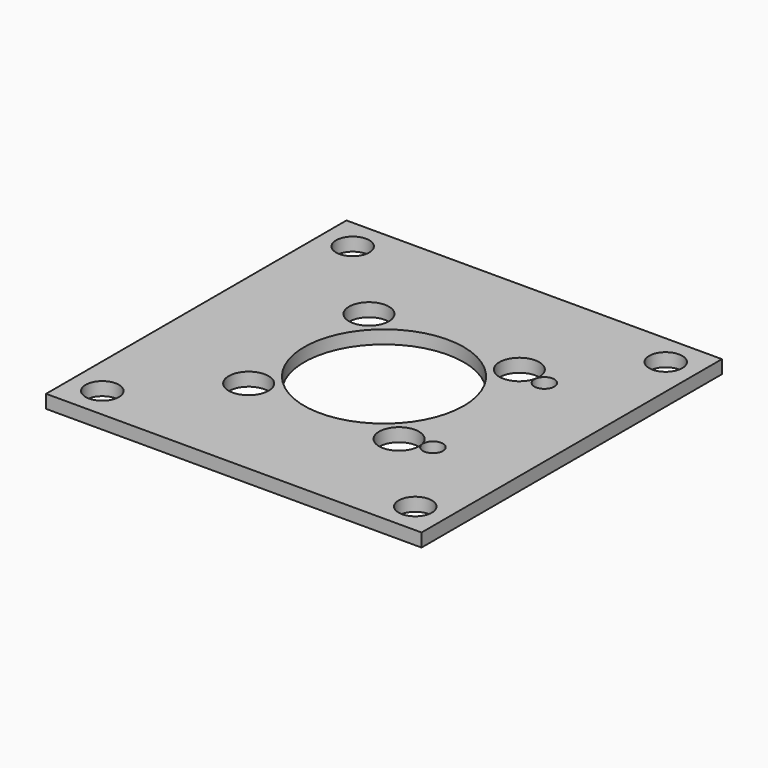
from build123d import *

# Parameters (mm, degrees)
BOX268_W                    = 56.5
BOX268_H                    = 56.5
BOX268_DEPTH                = 2
CYLINDER687_R               = 1.5
CYLINDER687_DEPTH           = 20
CYLINDER686_R               = 1.5
CYLINDER686_DEPTH           = 20
COMPOUND411_PLACEMENT_ANGLE = 90
BOX266_W                    = 20
BOX266_H                    = 8
BOX266_DEPTH                = 3
BOX265_W                    = 20
BOX265_H                    = 8
BOX265_DEPTH                = 3
BOX267_W                    = 20
BOX267_H                    = 8
BOX267_DEPTH                = 3
BOX264_W                    = 20
BOX264_H                    = 8
BOX264_DEPTH                = 3
CYLINDER682_R               = 12
CYLINDER682_DEPTH           = 20
CYLINDER672_R               = 5
CYLINDER672_DEPTH           = 4
CYLINDER670_R               = 5
CYLINDER670_DEPTH           = 4
CYLINDER674_R               = 5
CYLINDER674_DEPTH           = 4
CYLINDER675_R               = 5
CYLINDER675_DEPTH           = 4
CYLINDER683_R               = 2.5
CYLINDER683_DEPTH           = 20
CYLINDER673_R               = 2.5
CYLINDER673_DEPTH           = 20
CYLINDER676_R               = 2.5
CYLINDER676_DEPTH           = 20
CYLINDER684_R               = 2.5
CYLINDER684_DEPTH           = 20
CYLINDER681_R               = 3
CYLINDER681_DEPTH           = 5
CYLINDER681_PLACEMENT_ANGLE = 22.5
CYLINDER669_R               = 3
CYLINDER669_DEPTH           = 5
CYLINDER669_PLACEMENT_ANGLE = 67.5
CYLINDER680_R               = 3
CYLINDER680_DEPTH           = 5
CYLINDER680_PLACEMENT_ANGLE = 202.5
CYLINDER677_R               = 3
CYLINDER677_DEPTH           = 5
CYLINDER677_PLACEMENT_ANGLE = 112.5
COMPOUND408_PLACEMENT_ANGLE = 45
CYLINDER679_R               = 1.5
CYLINDER679_DEPTH           = 30
CYLINDER679_PLACEMENT_ANGLE = 22.5
CYLINDER678_R               = 1.5
CYLINDER678_DEPTH           = 30
CYLINDER678_PLACEMENT_ANGLE = 67.5
CYLINDER685_R               = 1.5
CYLINDER685_DEPTH           = 30
CYLINDER685_PLACEMENT_ANGLE = 202.5
CYLINDER671_R               = 1.5
CYLINDER671_DEPTH           = 30
CYLINDER671_PLACEMENT_ANGLE = 112.5
COMPOUND409_PLACEMENT_ANGLE = 45
BOX263_W                    = 68
BOX263_H                    = 64
BOX263_DEPTH                = 8


with BuildPart() as krychle268:
    # Box268 → Box268 (new body)
    with BuildSketch(Plane(origin=(-28.25, -28.25, -68), x_dir=(1, 0, 0), z_dir=(0, 0, 1))):
        with Locations((28.25, 28.25)):
            Rectangle(BOX268_W, BOX268_H)
    extrude(amount=BOX268_DEPTH)


with BuildPart() as obj1:
    # Cylinder687 → Cylinder687 (new body)
    with BuildSketch(Plane(origin=(15.75, 114, 59.48), x_dir=(-1, 0, 0), z_dir=(0, 1, 0))):
        Circle(CYLINDER687_R)
    extrude(amount=CYLINDER687_DEPTH)


with BuildPart() as compound411:
    # Cylinder686 → Cylinder686 (new body)
    with BuildSketch(Plane(origin=(15.75, 114, 38.52), x_dir=(-1, 0, 0), z_dir=(0, 1, 0))):
        Circle(CYLINDER686_R)
    extrude(amount=CYLINDER686_DEPTH)

    # Compound411: union obj1
    add(obj1.part)


with BuildPart() as compound411_1:
    # Compound411 placement: moved
    add(compound411.part.moved(Location((0, 49, -200))).rotate(Axis((0, 49, -200), (1, 0, 0)), COMPOUND411_PLACEMENT_ANGLE))


with BuildPart() as krychle266:
    # Box266 → Box266 (new body)
    with BuildSketch(Plane(origin=(17.55, -27.55, 31), x_dir=(1, 0, 0), z_dir=(0, 0, 1))):
        with Locations((10, 4)):
            Rectangle(BOX266_W, BOX266_H)
    extrude(amount=BOX266_DEPTH)


with BuildPart() as krychle265:
    # Box265 → Box265 (new body)
    with BuildSketch(Plane(origin=(-37.45, 19.55, 31), x_dir=(1, 0, 0), z_dir=(0, 0, 1))):
        with Locations((10, 4)):
            Rectangle(BOX265_W, BOX265_H)
    extrude(amount=BOX265_DEPTH)


with BuildPart() as krychle267:
    # Box267 → Box267 (new body)
    with BuildSketch(Plane(origin=(-37.45, -27.55, 31), x_dir=(1, 0, 0), z_dir=(0, 0, 1))):
        with Locations((10, 4)):
            Rectangle(BOX267_W, BOX267_H)
    extrude(amount=BOX267_DEPTH)


with BuildPart() as compound410:
    # Box264 → Box264 (new body)
    with BuildSketch(Plane(origin=(17.55, 19.55, 31), x_dir=(1, 0, 0), z_dir=(0, 0, 1))):
        with Locations((10, 4)):
            Rectangle(BOX264_W, BOX264_H)
    extrude(amount=BOX264_DEPTH)

    # Compound410: union Krychle266, Krychle265, Krychle267
    add(krychle266.part)
    add(krychle265.part)
    add(krychle267.part)


with BuildPart() as compound410_1:
    # Compound410 placement: moved
    add(compound410.part.moved(Location((0, 0, -4))))


with BuildPart() as obj2:
    # Cylinder682 → Cylinder682 (new body)
    with BuildSketch(Plane.XY.offset(15)):
        Circle(CYLINDER682_R)
    extrude(amount=CYLINDER682_DEPTH)


with BuildPart() as obj3:
    # Cylinder672 → Cylinder672 (new body)
    with BuildSketch(Plane(origin=(23.55, 23.55, 26), x_dir=(1, 0, 0), z_dir=(0, 0, 1))):
        Circle(CYLINDER672_R)
    extrude(amount=CYLINDER672_DEPTH)


with BuildPart() as obj4:
    # Cylinder670 → Cylinder670 (new body)
    with BuildSketch(Plane(origin=(23.55, -23.55, 26), x_dir=(1, 0, 0), z_dir=(0, 0, 1))):
        Circle(CYLINDER670_R)
    extrude(amount=CYLINDER670_DEPTH)


with BuildPart() as obj5:
    # Cylinder674 → Cylinder674 (new body)
    with BuildSketch(Plane(origin=(-23.55, 23.55, 26), x_dir=(1, 0, 0), z_dir=(0, 0, 1))):
        Circle(CYLINDER674_R)
    extrude(amount=CYLINDER674_DEPTH)


with BuildPart() as compound406:
    # Cylinder675 → Cylinder675 (new body)
    with BuildSketch(Plane(origin=(-23.55, -23.55, 26), x_dir=(1, 0, 0), z_dir=(0, 0, 1))):
        Circle(CYLINDER675_R)
    extrude(amount=CYLINDER675_DEPTH)

    # Compound406: union obj3, obj4, obj5
    add(obj3.part)
    add(obj4.part)
    add(obj5.part)


with BuildPart() as compound406_1:
    # Compound406 placement: moved
    add(compound406.part.moved(Location((0, 0, -50))))


with BuildPart() as obj6:
    # Cylinder683 → Cylinder683 (new body)
    with BuildSketch(Plane(origin=(-23.55, 23.55, 20), x_dir=(1, 0, 0), z_dir=(0, 0, 1))):
        Circle(CYLINDER683_R)
    extrude(amount=CYLINDER683_DEPTH)


with BuildPart() as obj7:
    # Cylinder673 → Cylinder673 (new body)
    with BuildSketch(Plane(origin=(-23.55, -23.55, 20), x_dir=(1, 0, 0), z_dir=(0, 0, 1))):
        Circle(CYLINDER673_R)
    extrude(amount=CYLINDER673_DEPTH)


with BuildPart() as obj8:
    # Cylinder676 → Cylinder676 (new body)
    with BuildSketch(Plane(origin=(23.55, -23.55, 20), x_dir=(1, 0, 0), z_dir=(0, 0, 1))):
        Circle(CYLINDER676_R)
    extrude(amount=CYLINDER676_DEPTH)


with BuildPart() as compound407:
    # Cylinder684 → Cylinder684 (new body)
    with BuildSketch(Plane(origin=(23.55, 23.55, 20), x_dir=(1, 0, 0), z_dir=(0, 0, 1))):
        Circle(CYLINDER684_R)
    extrude(amount=CYLINDER684_DEPTH)

    # Compound407: union obj6, obj7, obj8
    add(obj6.part)
    add(obj7.part)
    add(obj8.part)


with BuildPart() as obj9:
    # Cylinder681 → Cylinder681 (new body)
    with BuildSketch(Plane.XY):
        Circle(CYLINDER681_R)
    extrude(amount=CYLINDER681_DEPTH)


with BuildPart() as obj9_1:
    # Cylinder681 placement: moved
    add(obj9.part.moved(Location((-16, 0, 2))).rotate(Axis((-16, 0, 2), (0, 0, 1)), CYLINDER681_PLACEMENT_ANGLE))


with BuildPart() as obj10:
    # Cylinder669 → Cylinder669 (new body)
    with BuildSketch(Plane.XY):
        Circle(CYLINDER669_R)
    extrude(amount=CYLINDER669_DEPTH)


with BuildPart() as obj10_1:
    # Cylinder669 placement: moved
    add(obj10.part.moved(Location((0, 16, 2))).rotate(Axis((0, 16, 2), (0, 0, -1)), CYLINDER669_PLACEMENT_ANGLE))


with BuildPart() as obj11:
    # Cylinder680 → Cylinder680 (new body)
    with BuildSketch(Plane.XY):
        Circle(CYLINDER680_R)
    extrude(amount=CYLINDER680_DEPTH)


with BuildPart() as obj11_1:
    # Cylinder680 placement: moved
    add(obj11.part.moved(Location((16, 0, 2))).rotate(Axis((16, 0, 2), (0, 0, 1)), CYLINDER680_PLACEMENT_ANGLE))


with BuildPart() as compound408:
    # Cylinder677 → Cylinder677 (new body)
    with BuildSketch(Plane.XY):
        Circle(CYLINDER677_R)
    extrude(amount=CYLINDER677_DEPTH)


with BuildPart() as compound408_1:
    # Cylinder677 placement: moved
    add(compound408.part.moved(Location((0, -16, 2))).rotate(Axis((0, -16, 2), (0, 0, 1)), CYLINDER677_PLACEMENT_ANGLE))

    # Compound408: union obj9, obj10, obj11
    add(obj9_1.part)
    add(obj10_1.part)
    add(obj11_1.part)


with BuildPart() as compound408_2:
    # Compound408 placement: moved
    add(compound408_1.part.moved(Location((0, 0, 27))).rotate(Axis((0, 0, 27), (0, 0, 1)), COMPOUND408_PLACEMENT_ANGLE))


with BuildPart() as obj12:
    # Cylinder679 → Cylinder679 (new body)
    with BuildSketch(Plane.XY):
        Circle(CYLINDER679_R)
    extrude(amount=CYLINDER679_DEPTH)


with BuildPart() as obj12_1:
    # Cylinder679 placement: moved
    add(obj12.part.moved(Location((-16, 0, 2))).rotate(Axis((-16, 0, 2), (0, 0, 1)), CYLINDER679_PLACEMENT_ANGLE))


with BuildPart() as obj13:
    # Cylinder678 → Cylinder678 (new body)
    with BuildSketch(Plane.XY):
        Circle(CYLINDER678_R)
    extrude(amount=CYLINDER678_DEPTH)


with BuildPart() as obj13_1:
    # Cylinder678 placement: moved
    add(obj13.part.moved(Location((0, 16, 2))).rotate(Axis((0, 16, 2), (0, 0, -1)), CYLINDER678_PLACEMENT_ANGLE))


with BuildPart() as obj14:
    # Cylinder685 → Cylinder685 (new body)
    with BuildSketch(Plane.XY):
        Circle(CYLINDER685_R)
    extrude(amount=CYLINDER685_DEPTH)


with BuildPart() as obj14_1:
    # Cylinder685 placement: moved
    add(obj14.part.moved(Location((16, 0, 2))).rotate(Axis((16, 0, 2), (0, 0, 1)), CYLINDER685_PLACEMENT_ANGLE))


with BuildPart() as compound409:
    # Cylinder671 → Cylinder671 (new body)
    with BuildSketch(Plane.XY):
        Circle(CYLINDER671_R)
    extrude(amount=CYLINDER671_DEPTH)


with BuildPart() as compound409_1:
    # Cylinder671 placement: moved
    add(compound409.part.moved(Location((0, -16, 2))).rotate(Axis((0, -16, 2), (0, 0, 1)), CYLINDER671_PLACEMENT_ANGLE))

    # Compound409: union obj12, obj13, obj14
    add(obj12_1.part)
    add(obj13_1.part)
    add(obj14_1.part)


with BuildPart() as compound409_2:
    # Compound409 placement: moved
    add(compound409_1.part.moved(Location((0, 0, 14))).rotate(Axis((0, 0, 14), (0, 0, 1)), COMPOUND409_PLACEMENT_ANGLE))


with BuildPart() as common001:
    # Box263 → Box263 (new body)
    with BuildSketch(Plane(origin=(-34, -32, 26), x_dir=(1, 0, 0), z_dir=(0, 0, 1))):
        with Locations((34, 32)):
            Rectangle(BOX263_W, BOX263_H)
    extrude(amount=BOX263_DEPTH)

    # Cut271: cut Compound409
    add(compound409_2.part, mode=Mode.SUBTRACT)

    # Cut270: cut Compound408
    add(compound408_2.part, mode=Mode.SUBTRACT)

    # Cut272: cut Compound407
    add(compound407.part, mode=Mode.SUBTRACT)

    # Cut269: cut Compound406
    add(compound406_1.part, mode=Mode.SUBTRACT)

    # Cut268: cut obj2
    add(obj2.part, mode=Mode.SUBTRACT)

    # Cut267: cut Compound410
    add(compound410_1.part, mode=Mode.SUBTRACT)


with BuildPart() as common001_1:
    # Cut267 placement: moved
    add(common001.part.moved(Location((0, 0, -100))))

    # Cut: cut Compound411
    add(compound411_1.part, mode=Mode.SUBTRACT)

    # Common001: intersect Krychle268
    add(krychle268.part, mode=Mode.INTERSECT)


solid = common001_1.part
